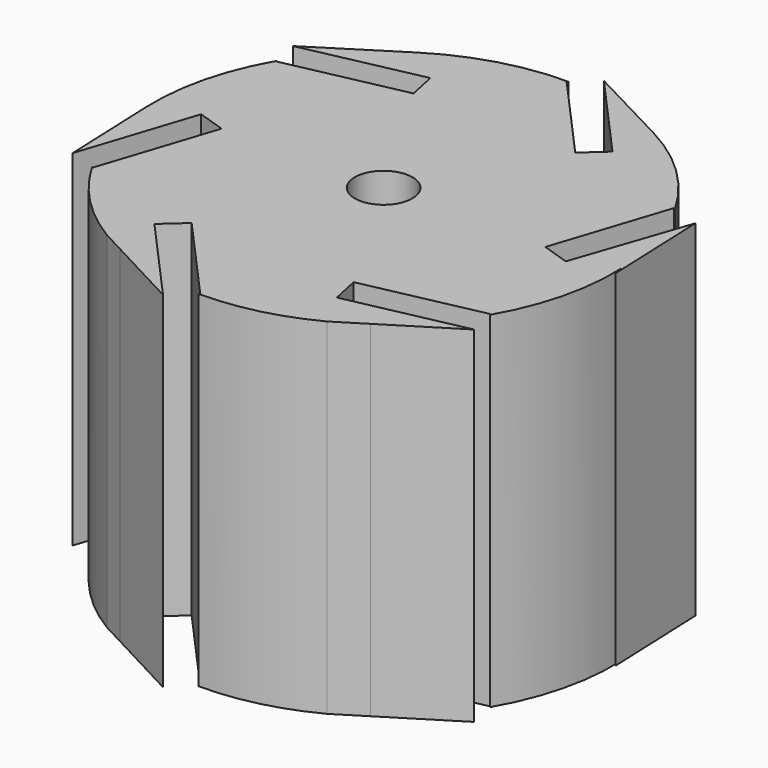
from build123d import *

# Parameters (mm, degrees)
F0_R     = 6.35
F1_DEPTH = 76.2


with BuildPart() as f1:
    # F0 (on Top) → F1 (new body)
    with BuildSketch(Plane.XY):
        with BuildLine():
            Line((-43.806983, -25.361842), (-44.06456, -25.27755))
            ThreePointArc((-44.06456, -25.27755), (-36.318587, -35.519013), (-26.252069, -43.49102))
            Line((-26.252069, -43.49102), (-21.279346, -46.128401))
            Line((-21.279346, -46.128401), (-4.724133, -54.908783))
            Line((-4.724133, -54.908783), (-22.398102, -35.196542))
            Line((-22.398102, -35.196542), (-17.613461, -30.90664))
            Line((-17.613461, -30.90664), (0.060508, -50.618881))
            Line((0.060508, -50.618881), (-0.14128, -50.799804))
            ThreePointArc((-0.14128, -50.799804), (12.057786, -49.34825), (23.551673, -45.010651))
            Line((23.551673, -45.010651), (29.977489, -41.012073))
            Line((29.977489, -41.012073), (45.190335, -31.545611))
            Line((45.190335, -31.545611), (19.28448, -36.995084))
            Line((19.28448, -36.995084), (17.959204, -30.707025))
            Line((17.959204, -30.707025), (43.867491, -25.257039))
            Line((43.867491, -25.257039), (43.92328, -25.522254))
            ThreePointArc((43.92328, -25.522254), (49.294753, -12.274661), (50.762755, 1.944916))
            Line((50.762755, 1.944916), (51.130101, 0))
            Line((51.130101, 0), (50.202441, 23.225819))
            Line((50.202441, 23.225819), (41.644922, -1.83064))
            Line((41.644922, -1.83064), (35.537437, 0.168029))
            Line((35.537437, 0.168029), (43.771755, 25.330256))
            Line((43.771755, 25.330256), (44.094956, 25.224489))
            ThreePointArc((44.094956, 25.224489), (35.237916, 36.591383), (23.545425, 45.01392))
            Line((23.545425, 45.01392), (4.688904, 54.877198))
            Line((4.688904, 54.877198), (22.362902, 35.164925))
            Line((22.362902, 35.164925), (17.578261, 30.875022))
            Line((17.578261, 30.875022), (-0.095736, 50.587295))
            Line((-0.095736, 50.587295), (0.14128, 50.799804))
            ThreePointArc((0.14128, 50.799804), (-14.048748, 48.818774), (-27.121244, 42.954373))
            Line((-27.121244, 42.954373), (-45.190335, 31.545611))
            Line((-45.190335, 31.545611), (-19.284156, 37.005613))
            Line((-19.284156, 37.005613), (-17.959204, 30.707025))
            Line((-17.959204, 30.707025), (-43.867491, 25.257039))
            Line((-43.867491, 25.257039), (-43.92328, 25.522254))
            ThreePointArc((-43.92328, 25.522254), (-49.304707, 12.234617), (-50.759528, -2.02738))
            Line((-50.759528, -2.02738), (-50.373884, -11.682765))
            Line((-50.373884, -11.682765), (-49.907264, -23.36553))
            Line((-49.907264, -23.36553), (-41.68015, 1.799054))
            Line((-41.68015, 1.799054), (-35.572666, -0.199615))
            Line((-35.572666, -0.199615), (-43.806983, -25.361842))
        make_face()
        Circle(F0_R, mode=Mode.SUBTRACT)
    extrude(amount=F1_DEPTH)


solid = f1.part
